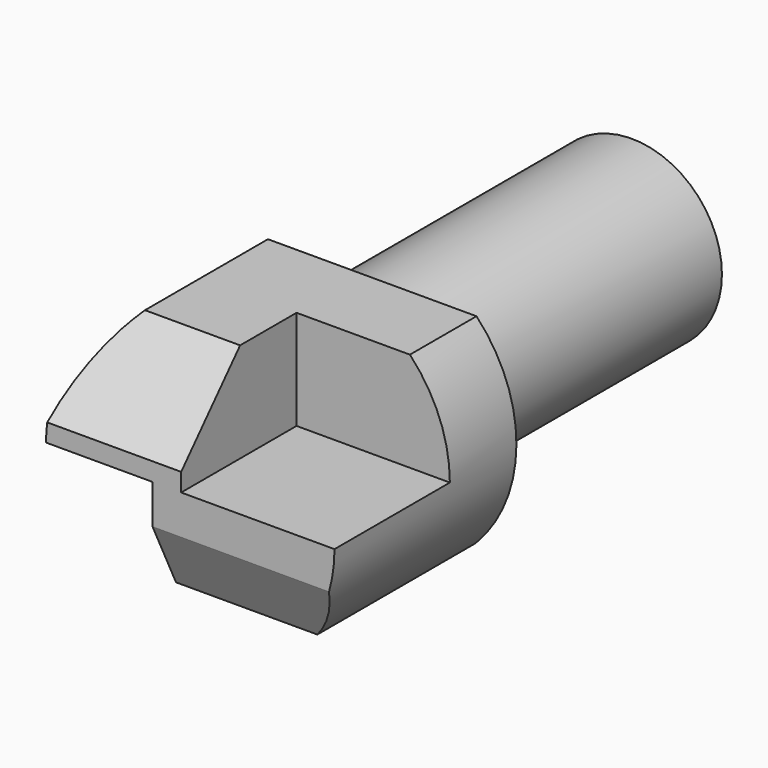
from build123d import *

# Parameters (mm, degrees)
F0_R      = 15.875
F1_DEPTH  = 57.15
F2_R      = 25.4
F3_DEPTH  = 40.0558
F4_W      = 27.00502
F4_H      = 32.818373
F5_DEPTH  = 25.4
F6_W      = 22.263035
F6_H      = 30.068964
F7_DEPTH  = 25.4
F8_W      = 53.508617
F8_H      = 14.514484
F9_DEPTH  = 38.1
F11_DEPTH = 25.4
F12_W     = 57.841301
F12_H     = 15.814288
F13_DEPTH = 38.1
F15_DEPTH = 50.8


with BuildPart() as f1:
    # F0 (on Front) → F1 (new body)
    with BuildSketch(Plane.XZ):
        Circle(F0_R)
    extrude(amount=F1_DEPTH)

    # F2 (on face) → F3 (join)
    with BuildSketch(Plane.XZ.offset(57.15)):
        Circle(F2_R)
    extrude(amount=F3_DEPTH)

    # F4 (on face) → F5 (cut)
    with BuildSketch(Plane.XZ.offset(97.2058)):
        with Locations((11.89749, 16.409187)):
            Rectangle(F4_W, F4_H)
    extrude(amount=-F5_DEPTH, mode=Mode.SUBTRACT)

    # F6 (on face) → F7 (cut)
    with BuildSketch(Plane.XZ.offset(97.2058)):
        with Locations((-17.785884, -15.034482)):
            Rectangle(F6_W, F6_H)
    extrude(amount=-F7_DEPTH, mode=Mode.SUBTRACT)

    # F8 (on Right) → F9 (cut, symmetric)
    with BuildSketch(Plane.YZ):
        with Locations((-82.644399, 24.802346)):
            Rectangle(F8_W, F8_H)
    extrude(amount=F9_DEPTH, both=True, mode=Mode.SUBTRACT)

    # F10 (on face) → F11 (cut)
    with BuildSketch(Plane.YZ.offset(-1.60502)):
        Polygon((-104.001366, 21.551706), (-100.101955, 0), (-80.604888, 21.551706), align=None)
    extrude(amount=-F11_DEPTH, mode=Mode.SUBTRACT)

    # F12 (on face) → F13 (cut, symmetric)
    with BuildSketch(Plane.YZ.offset(-1.60502)):
        with Locations((-83.315812, -25.581674)):
            Rectangle(F12_W, F12_H)
    extrude(amount=F13_DEPTH, both=True, mode=Mode.SUBTRACT)

    # F14 (on face) → F15 (cut)
    with BuildSketch(Plane(origin=(-6.654367, 0, 0), x_dir=(0, -1, 0), z_dir=(-1, 0, 0))):
        Polygon((101.621397, -22.054199), (100.538224, 0), (89.923158, -22.054199), align=None)
    extrude(amount=-F15_DEPTH, mode=Mode.SUBTRACT)


solid = f1.part
